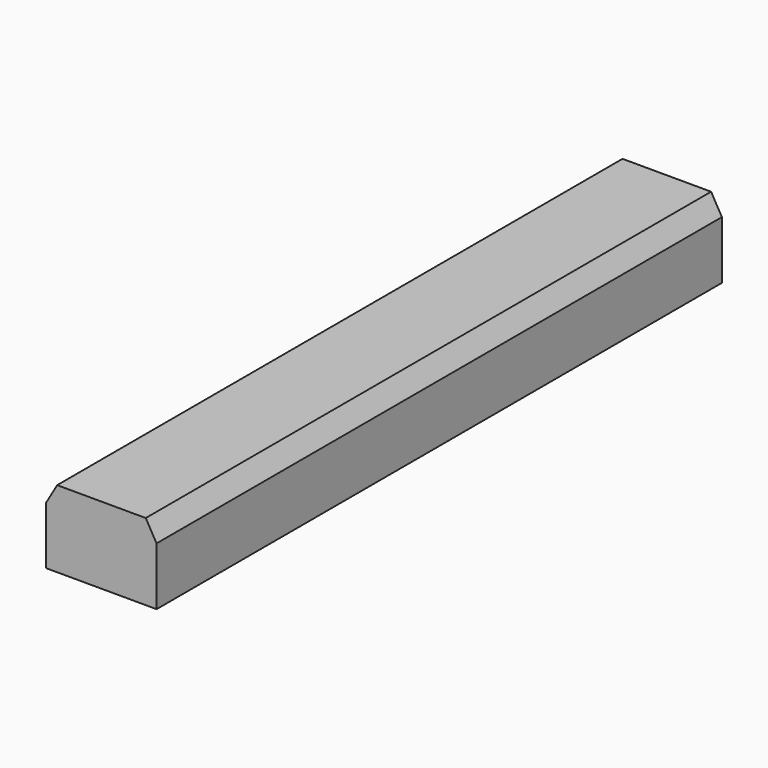
from build123d import *

# Parameters (mm, degrees)
F1_DEPTH = 71
F3_DEPTH = 71
F5_DEPTH = 71


with BuildPart() as f1:
    # F0 (on Front) → F1 (new body)
    with BuildSketch(Plane.XZ):
        Polygon((8.899987, -0.01517), (4.463131, 7.70003), (-4.436856, 7.7152), (-8.899987, 0.01517), (-4.463131, -7.70003), (4.436856, -7.7152), align=None)
    extrude(amount=F1_DEPTH)

    # F2 (on face) → F3 (cut)
    with BuildSketch(Plane.XZ.offset(71)):
        Polygon((8.899987, -0.01517), (-8.899987, 0.01517), (-4.463131, -7.70003), (4.436856, -7.7152), align=None)
    extrude(amount=-F3_DEPTH, mode=Mode.SUBTRACT)

    # F4 (on face) → F5 (cut)
    with BuildSketch(Plane(origin=(0, 0, 0), x_dir=(-1, 0, 0), z_dir=(0, 1, 0))):
        Polygon((-5.549992, 5.8101), (-8.899987, -0.01517), (-5.549992, -0.00946), align=None)
        Polygon((5.549992, 0.00946), (8.899987, 0.01517), (5.549992, 5.794759), align=None)
    extrude(amount=-F5_DEPTH, mode=Mode.SUBTRACT)


solid = f1.part
